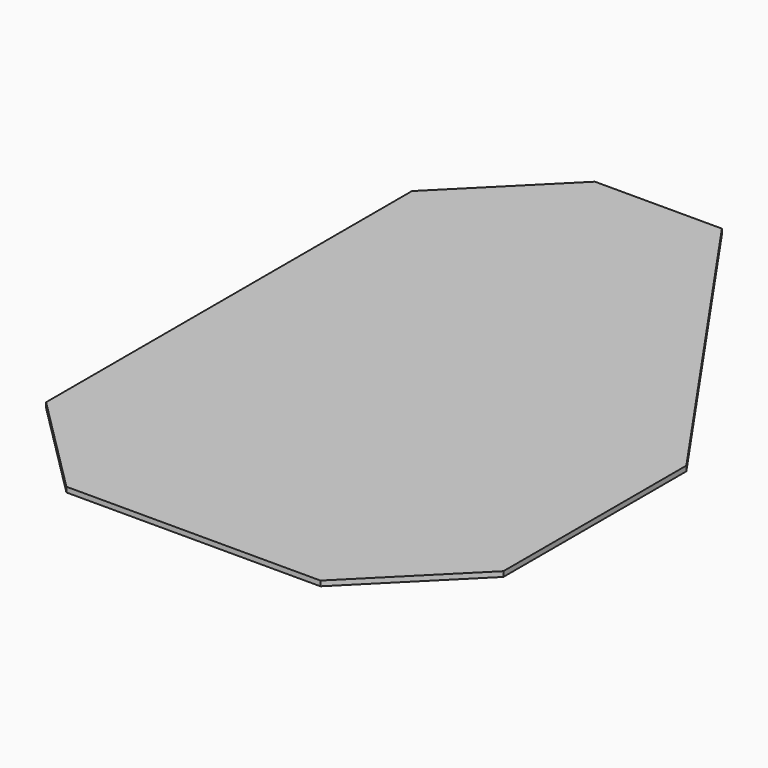
from build123d import *

# Parameters (mm, degrees)
F1_DEPTH = 1
F2_SIZE  = 20
F3_SIZE  = 20
F4_SIZE  = 20


with BuildPart() as f1:
    # F0 (on Top) → F1 (new body)
    with BuildSketch(Plane.XY):
        Polygon((6.802157, 69.381405), (-38.197843, 69.381405), (-38.197843, -60.618595), (51.802157, -60.618595), (51.802157, 4.381405), align=None)
    extrude(amount=F1_DEPTH)

    # F2
    f2_edges = [f1.edges().sort_by_distance(p)[0] for p in [
        (51.802157, -60.618595, 0.5),
    ]]
    chamfer(f2_edges, length=F2_SIZE)

    # F3
    f3_edges = [f1.edges().sort_by_distance(p)[0] for p in [
        (-38.197843, -60.618595, 0.5),
    ]]
    chamfer(f3_edges, length=F3_SIZE)

    # F4
    f4_edges = [f1.edges().sort_by_distance(p)[0] for p in [
        (-38.197843, 69.381405, 0.5),
    ]]
    chamfer(f4_edges, length=F4_SIZE)


solid = f1.part
